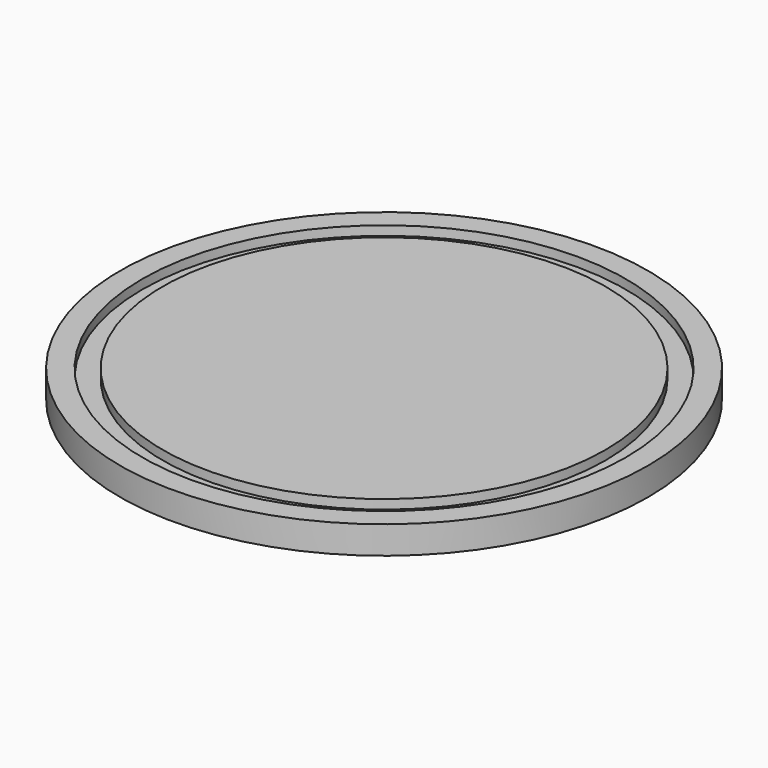
from build123d import *

# Parameters (mm, degrees)
F0_R     = 28.5
F1_DEPTH = 3
F2_R     = 26.1
F2_R_2   = 23.9
F3_DEPTH = 1


with BuildPart() as f1:
    # F0 (on Top) → F1 (new body)
    with BuildSketch(Plane.XY):
        Circle(F0_R)
    extrude(amount=F1_DEPTH)

    # F2 (on face) → F3 (cut)
    with BuildSketch(Plane.XY.offset(3)):
        Circle(F2_R)
        Circle(F2_R_2, mode=Mode.SUBTRACT)
    extrude(amount=-F3_DEPTH, mode=Mode.SUBTRACT)


solid = f1.part
